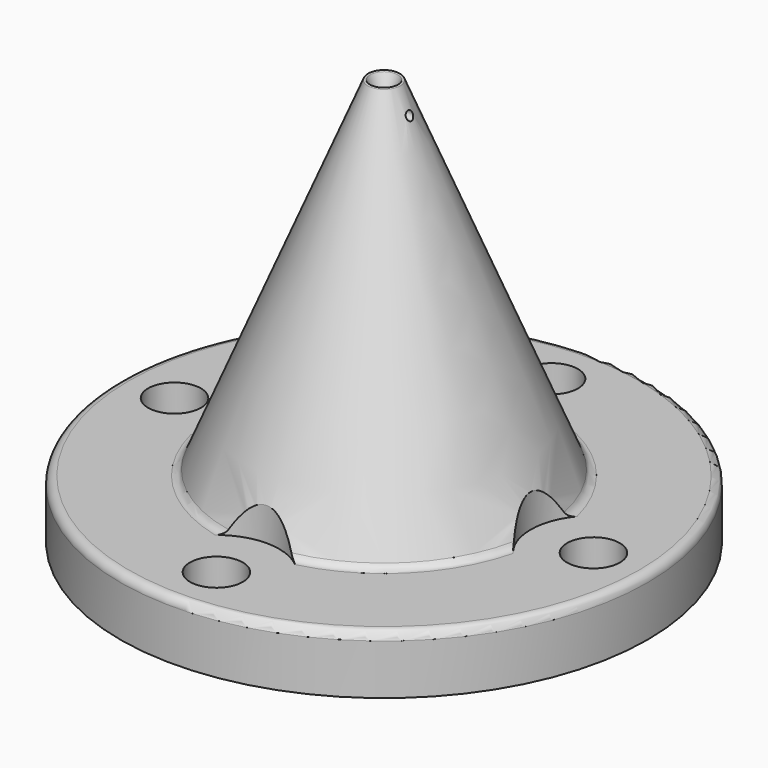
from build123d import *

# Parameters (mm, degrees)
SKETCH004_R     = 3.15
POCKET_DEPTH    = 48.654386
SKETCH005_R     = 7.5
POCKET001_DEPTH = 41.654386
SKETCH006_R     = 0.5


with BuildPart() as part:
    # Sketch003 → Revolution (revolve)
    with BuildSketch(Plane.XZ):
        with BuildLine():
            Line((0, 0), (31.5, 0))
            Line((31.5, 0), (31.5, 6))
            ThreePointArc((31.5, 6), (31.207107, 6.707107), (30.5, 7))
            Line((30.5, 7), (19.809153, 7))
            ThreePointArc((18.885273, 7.617317), (19.253582, 7.16853), (19.809153, 7))
            Line((18.885273, 7.617317), (1.925932, 48.560789))
            ThreePointArc((1.925932, 48.560789), (1.78735, 48.653386), (1.648768, 48.560789))
            Line((1.648768, 48.560789), (1.079673, 47.186871))
            ThreePointArc((0, 46.8), (0.573446, 46.899638), (1.079673, 47.186871))
            Line((0, 0), (0, 46.8))
        make_face()
    revolve(axis=Axis((0, 0, 0), (0, 0, 1)))

    # Sketch004 → Pocket (cut, through all)
    with BuildSketch(Plane.XY):
        with Locations((25, 0)):
            Circle(SKETCH004_R)
        with Locations((-25, 0)):
            Circle(SKETCH004_R)
        with Locations((0, 25)):
            Circle(SKETCH004_R)
        with Locations((0, -25)):
            Circle(SKETCH004_R)
    extrude(amount=POCKET_DEPTH, mode=Mode.SUBTRACT)

    # Sketch005 (on DatumPlane) → Pocket001 (cut, through all)
    with BuildSketch(Plane(origin=(0, 0, 7), x_dir=(-1, 0, 0), z_dir=(0, 0, 1))):
        with Locations((25, 0)):
            Circle(SKETCH005_R)
        with Locations((0, 25)):
            Circle(SKETCH005_R)
        with Locations((-25, 0)):
            Circle(SKETCH005_R)
        with Locations((0, -25)):
            Circle(SKETCH005_R)
    extrude(amount=POCKET001_DEPTH, mode=Mode.SUBTRACT)

    # SubtractivePipe: sweep along a path in Sketch
    with BuildLine(Plane.XZ) as subtractivepipe_path:
        Line((0, 47.186871), (0, 46.8))
        ThreePointArc((0, 46.8), (0.292893, 46.092893), (1, 45.8))
        Line((1, 45.8), (3.069488, 45.8))
        Line((3.069488, 45.8), (4.069488, 45.8))
    # Sketch006 (on DatumPlane) → SubtractivePipe (sweep, cut)
    with BuildSketch(Plane.XY.offset(47.186871)):
        Circle(SKETCH006_R)
    sweep(path=subtractivepipe_path.line, mode=Mode.SUBTRACT)


solid = part.part
